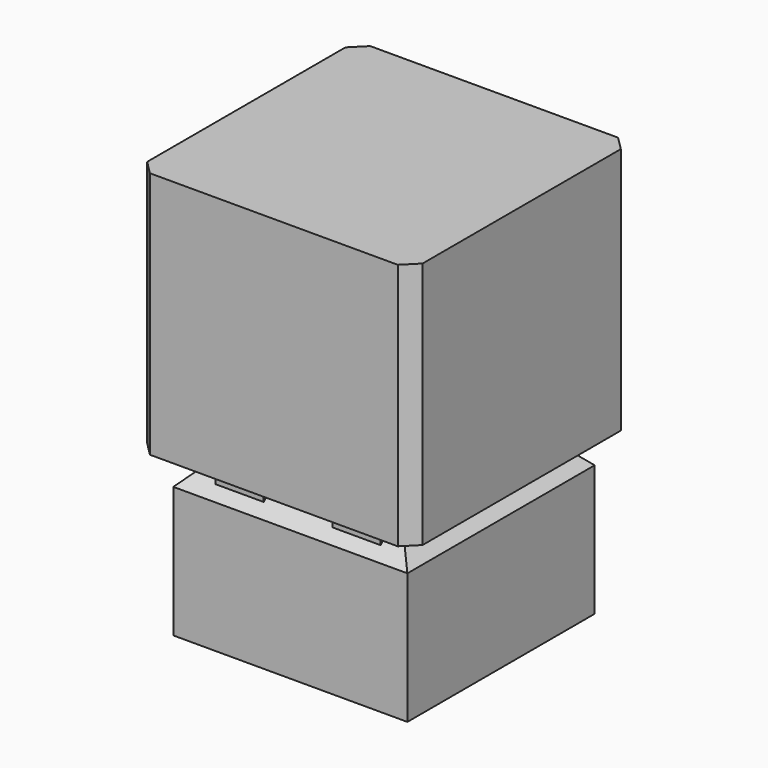
from build123d import *

# Parameters (mm, degrees)
BOX005_W        = 20
BOX005_H        = 20
BOX005_DEPTH    = 18
CHAMFER003_SIZE = 1
BOX004_W        = 17
BOX004_H        = 17
BOX004_DEPTH    = 11
CHAMFER002_SIZE = 1.5
BOX003_W        = 14
BOX003_H        = 14
BOX003_DEPTH    = 1
BOX008_W        = 3.5
BOX008_H        = 1
BOX008_DEPTH    = 2
BOX007_W        = 3.5
BOX007_H        = 1
BOX007_DEPTH    = 2
BOX006_W        = 3.5
BOX006_H        = 1
BOX006_DEPTH    = 2
BOX009_W        = 3.5
BOX009_H        = 1
BOX009_DEPTH    = 2


with BuildPart() as chamfer003:
    # Box005 → Box005 (new body)
    with BuildSketch(Plane(origin=(-10, -10, 12), x_dir=(1, 0, 0), z_dir=(0, 0, 1))):
        with Locations((10, 10)):
            Rectangle(BOX005_W, BOX005_H)
    extrude(amount=BOX005_DEPTH)

    # Chamfer003
    chamfer003_edges = [chamfer003.edges().sort_by_distance(p)[0] for p in [
        (-10, -10, 21),
        (-10, 10, 21),
        (10, -10, 21),
        (10, 10, 21),
    ]]
    chamfer(chamfer003_edges, length=CHAMFER003_SIZE)


with BuildPart() as chamfer002:
    # Box004 → Box004 (new body)
    with BuildSketch(Plane(origin=(-8.5, -8.5, 0), x_dir=(1, 0, 0), z_dir=(0, 0, 1))):
        with Locations((8.5, 8.5)):
            Rectangle(BOX004_W, BOX004_H)
    extrude(amount=BOX004_DEPTH)

    # Chamfer002
    chamfer002_edges = [chamfer002.edges().sort_by_distance(p)[0] for p in [
        (-8.5, 0, 11),
        (8.5, 0, 11),
        (0, -8.5, 11),
        (0, 8.5, 11),
    ]]
    chamfer(chamfer002_edges, length=CHAMFER002_SIZE)


with BuildPart() as cube003:
    # Box003 → Box003 (new body)
    with BuildSketch(Plane(origin=(-7, -7, 11), x_dir=(1, 0, 0), z_dir=(0, 0, 1))):
        with Locations((7, 7)):
            Rectangle(BOX003_W, BOX003_H)
    extrude(amount=BOX003_DEPTH)


with BuildPart() as cube008:
    # Box008 → Box008 (new body)
    with BuildSketch(Plane(origin=(2.5, 6.8, 10), x_dir=(1, 0, 0), z_dir=(0, 0, 1))):
        with Locations((1.75, 0.5)):
            Rectangle(BOX008_W, BOX008_H)
    extrude(amount=BOX008_DEPTH)


with BuildPart() as cube007:
    # Box007 → Box007 (new body)
    with BuildSketch(Plane(origin=(2.5, -7.8, 10), x_dir=(1, 0, 0), z_dir=(0, 0, 1))):
        with Locations((1.75, 0.5)):
            Rectangle(BOX007_W, BOX007_H)
    extrude(amount=BOX007_DEPTH)


with BuildPart() as cube006:
    # Box006 → Box006 (new body)
    with BuildSketch(Plane(origin=(-6, -7.8, 10), x_dir=(1, 0, 0), z_dir=(0, 0, 1))):
        with Locations((1.75, 0.5)):
            Rectangle(BOX006_W, BOX006_H)
    extrude(amount=BOX006_DEPTH)


with BuildPart() as button_slot:
    # Box009 → Box009 (new body)
    with BuildSketch(Plane(origin=(-6, 6.8, 10), x_dir=(1, 0, 0), z_dir=(0, 0, 1))):
        with Locations((1.75, 0.5)):
            Rectangle(BOX009_W, BOX009_H)
    extrude(amount=BOX009_DEPTH)

    # Fusion: union Cube008, Cube007, Cube006
    add(cube008.part)
    add(cube007.part)
    add(cube006.part)

    # Fusion001: union Chamfer003, Chamfer002, Cube003
    add(chamfer003.part)
    add(chamfer002.part)
    add(cube003.part)


solid = button_slot.part
